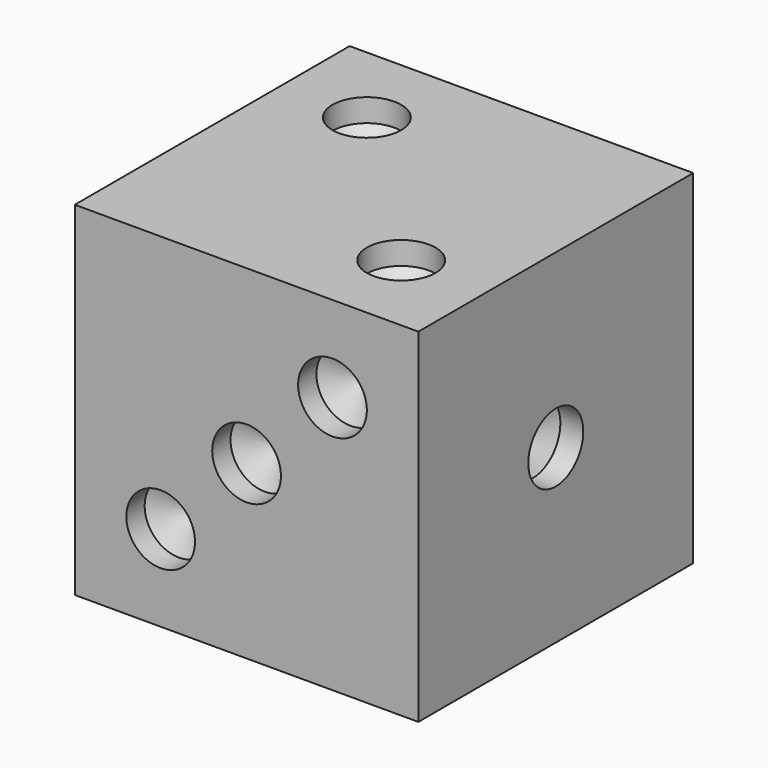
from build123d import *

# Parameters (mm, degrees)
F0_W                 = 30
F0_H                 = 30
F1_DEPTH             = 15
F8_D                 = 6
F8_DEPTH             = 2
F8_CBORE_D           = 6
F8_CBORE_DEPTH       = 2
F8_TIP               = 1.8025818571
F8_ON_F5_D           = 6
F8_ON_F5_DEPTH       = 2
F8_ON_F5_CBORE_D     = 6
F8_ON_F5_CBORE_DEPTH = 2
F8_ON_F5_TIP         = 1.8025818571
F8_ON_F7_D           = 6
F8_ON_F7_DEPTH       = 2
F8_ON_F7_CBORE_D     = 6
F8_ON_F7_CBORE_DEPTH = 2
F8_ON_F7_TIP         = 1.8025818571
F8_ON_F3_D           = 6
F8_ON_F3_DEPTH       = 2
F8_ON_F3_CBORE_D     = 6
F8_ON_F3_CBORE_DEPTH = 2
F8_ON_F3_TIP         = 1.8025818571
F8_ON_F4_D           = 6
F8_ON_F4_DEPTH       = 2
F8_ON_F4_CBORE_D     = 6
F8_ON_F4_CBORE_DEPTH = 2
F8_ON_F4_TIP         = 1.8025818571
F8_ON_F6_D           = 6
F8_ON_F6_DEPTH       = 2
F8_ON_F6_CBORE_D     = 6
F8_ON_F6_CBORE_DEPTH = 2
F8_ON_F6_TIP         = 1.8025818571


with BuildPart() as f1:
    # F0 (on Front) → F1 (new body, symmetric)
    with BuildSketch(Plane.XZ):
        Rectangle(F0_W, F0_H)
    extrude(amount=F1_DEPTH, both=True)

    # F8
    with Locations(Plane.XZ.offset(15)):
        with Locations((7.5, 7.5), (0, 0), (-7.5, -7.5)):
            CounterBoreHole(F8_D / 2, F8_CBORE_D / 2, F8_CBORE_DEPTH, depth=F8_DEPTH)
            with Locations((0, 0, -(F8_DEPTH + F8_TIP / 2))):  # 118° drill point
                Cone(0, F8_D / 2, F8_TIP, mode=Mode.SUBTRACT)

    # F8 on F5
    with Locations(Plane(origin=(0, 15, 0), x_dir=(-1, 0, 0), z_dir=(0, 1, 0))):
        with Locations((-7.5, 7.5), (7.5, 7.5), (7.5, -7.5), (-7.5, -7.5)):
            CounterBoreHole(F8_ON_F5_D / 2, F8_ON_F5_CBORE_D / 2, F8_ON_F5_CBORE_DEPTH, depth=F8_ON_F5_DEPTH)
            with Locations((0, 0, -(F8_ON_F5_DEPTH + F8_ON_F5_TIP / 2))):  # 118° drill point
                Cone(0, F8_ON_F5_D / 2, F8_ON_F5_TIP, mode=Mode.SUBTRACT)

    # F8 on F7
    with Locations(Plane(origin=(-15, 0, 0), x_dir=(0, -1, 0), z_dir=(-1, 0, 0))):
        with Locations((-7.5, 7.5), (-7.5, 0), (-7.5, -7.5), (7.5, -7.5), (7.5, 0), (7.5, 7.5)):
            CounterBoreHole(F8_ON_F7_D / 2, F8_ON_F7_CBORE_D / 2, F8_ON_F7_CBORE_DEPTH, depth=F8_ON_F7_DEPTH)
            with Locations((0, 0, -(F8_ON_F7_DEPTH + F8_ON_F7_TIP / 2))):  # 118° drill point
                Cone(0, F8_ON_F7_D / 2, F8_ON_F7_TIP, mode=Mode.SUBTRACT)

    # F8 on F3
    with Locations(Plane.YZ.offset(15)):
        with Locations((0, 0)):
            CounterBoreHole(F8_ON_F3_D / 2, F8_ON_F3_CBORE_D / 2, F8_ON_F3_CBORE_DEPTH, depth=F8_ON_F3_DEPTH)
            with Locations((0, 0, -(F8_ON_F3_DEPTH + F8_ON_F3_TIP / 2))):  # 118° drill point
                Cone(0, F8_ON_F3_D / 2, F8_ON_F3_TIP, mode=Mode.SUBTRACT)

    # F8 on F4
    with Locations(Plane.XY.offset(15)):
        with Locations((-7.5, 7.5), (7.5, -7.5)):
            CounterBoreHole(F8_ON_F4_D / 2, F8_ON_F4_CBORE_D / 2, F8_ON_F4_CBORE_DEPTH, depth=F8_ON_F4_DEPTH)
            with Locations((0, 0, -(F8_ON_F4_DEPTH + F8_ON_F4_TIP / 2))):  # 118° drill point
                Cone(0, F8_ON_F4_D / 2, F8_ON_F4_TIP, mode=Mode.SUBTRACT)

    # F8 on F6
    with Locations(Plane(origin=(0, 0, -15), x_dir=(1, 0, 0), z_dir=(0, 0, -1))):
        with Locations((-7.5, -7.5), (0, 0), (7.5, 7.5), (-7.5, 7.5), (7.5, -7.5)):
            CounterBoreHole(F8_ON_F6_D / 2, F8_ON_F6_CBORE_D / 2, F8_ON_F6_CBORE_DEPTH, depth=F8_ON_F6_DEPTH)
            with Locations((0, 0, -(F8_ON_F6_DEPTH + F8_ON_F6_TIP / 2))):  # 118° drill point
                Cone(0, F8_ON_F6_D / 2, F8_ON_F6_TIP, mode=Mode.SUBTRACT)


solid = f1.part
